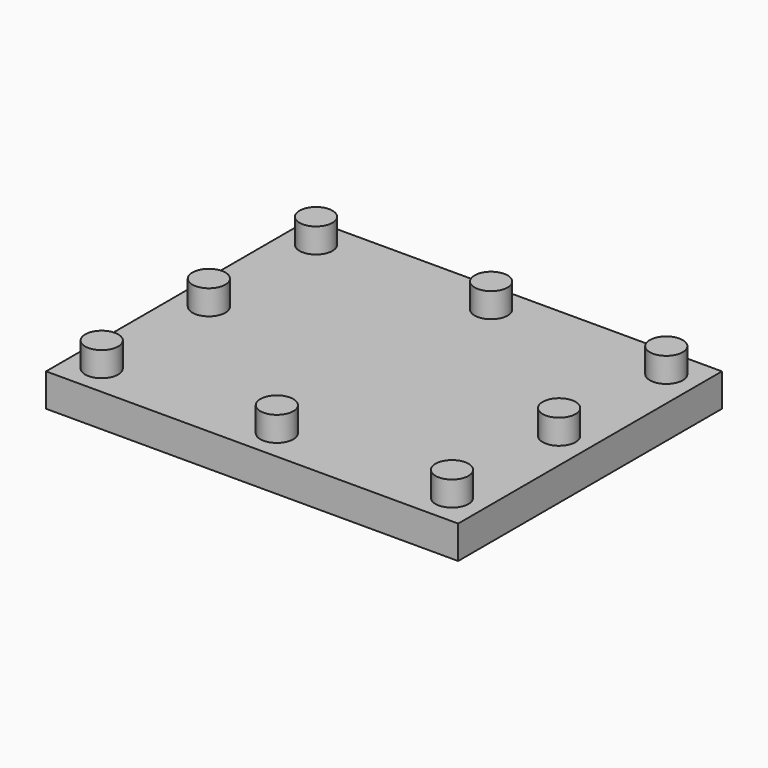
from build123d import *

# Parameters (mm, degrees)
F0_W     = 10
F0_H     = 8
F1_DEPTH = 0.8
F2_R     = 0.4
F3_DEPTH = 0.6


with BuildPart() as f1:
    # F0 (on Top) → F1 (new body)
    with BuildSketch(Plane.XY):
        Rectangle(F0_W, F0_H)
    extrude(amount=F1_DEPTH)

    # F2 (on face) → F3 (join)
    with BuildSketch(Plane.XY.offset(0.8)):
        with Locations((-4.25, 3.25)):
            Circle(F2_R)
        with Locations((-4.25, 0)):
            Circle(F2_R)
        with Locations((-4.25, -3.25)):
            Circle(F2_R)
        with Locations((0, 3.25)):
            Circle(F2_R)
        with Locations((4.25, 3.25)):
            Circle(F2_R)
        with Locations((4.25, 0)):
            Circle(F2_R)
        with Locations((4.25, -3.25)):
            Circle(F2_R)
        with Locations((0, -3.25)):
            Circle(F2_R)
    extrude(amount=F3_DEPTH)


solid = f1.part
